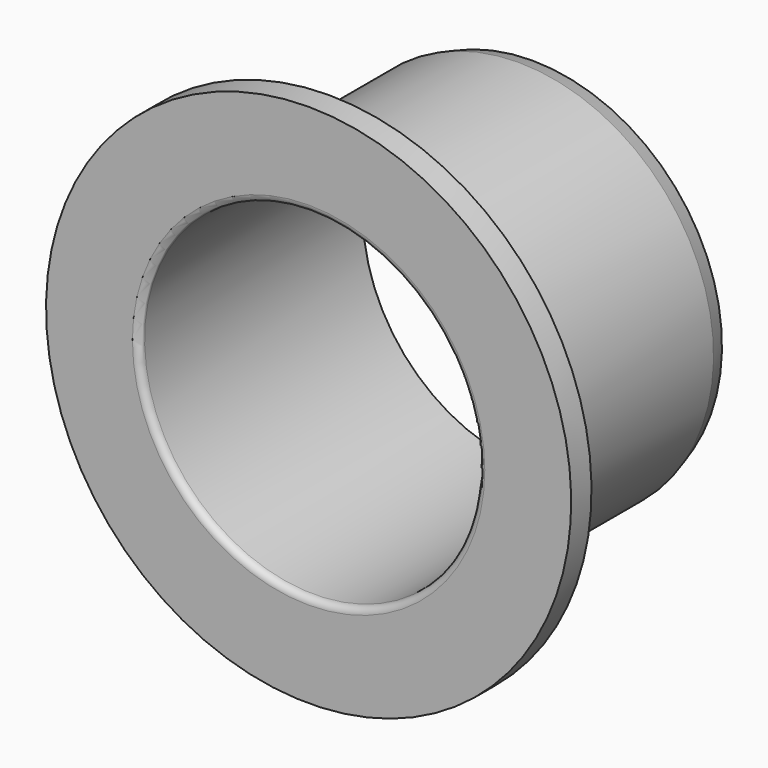
from build123d import *

# Parameters (mm, degrees)
F2_R     = 0.4
F3_SIZE2 = 0.3
F3_SIZE  = 1


with BuildPart() as f1:
    # F0 (on Right) → F1 (revolve)
    with BuildSketch(Plane.YZ):
        Polygon((1.5, 15.5), (0, 15.5), (0, 10), (16.5, 10), (16.5, 11.5), (1.5, 11.5), align=None)
    revolve(axis=Axis((0, 9.5578194596, 0), (0, 1, 0)))

    # F2
    f2_edges = [f1.edges().sort_by_distance(p)[0] for p in [
        (0, 0, -10),
    ]]
    fillet(f2_edges, radius=F2_R)

    # F3
    f3_edges = [f1.edges().sort_by_distance(p)[0] for p in [
        (0, 16.5, -11.5),
    ]]
    f3_side = f1.faces().sort_by_distance((0, 9, -11.5))[0]
    chamfer(f3_edges, length=F3_SIZE, length2=F3_SIZE2, reference=f3_side)


solid = f1.part
